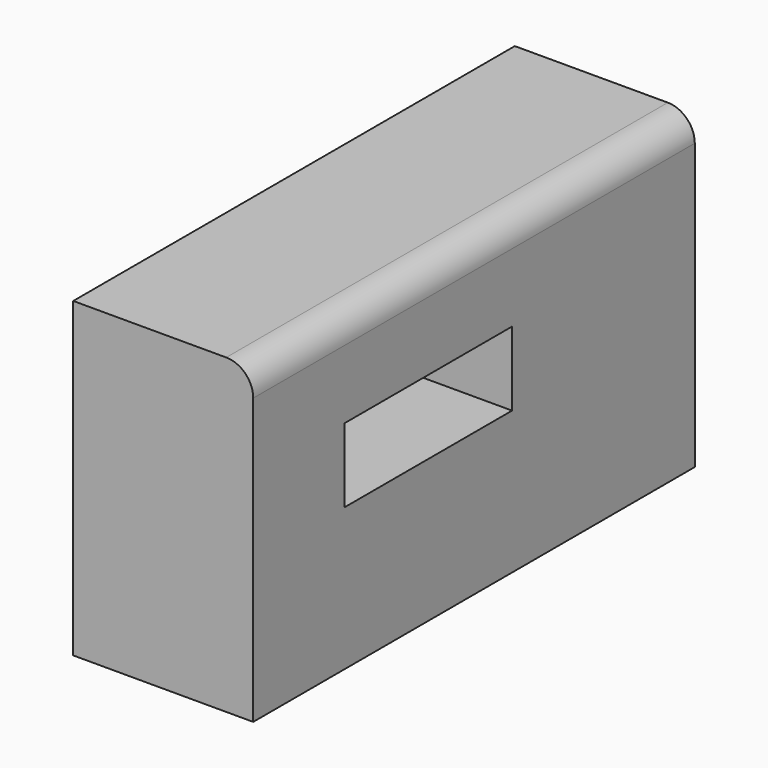
from build123d import *

# Parameters (mm, degrees)
F0_W     = 155.76981
F0_H     = 88.070355
F1_DEPTH = 50.8
F2_R     = 7.62
F3_W     = 59.155117
F3_H     = 20.894366
F4_DEPTH = 50.8


with BuildPart() as f1:
    # F0 (on Right) → F1 (new body)
    with BuildSketch(Plane.YZ):
        with Locations((77.884905, -44.035177)):
            Rectangle(F0_W, F0_H)
    extrude(amount=F1_DEPTH)

    # F2
    f2_edges = [f1.edges().sort_by_distance(p)[0] for p in [
        (50.8, 77.884905, 0),
    ]]
    fillet(f2_edges, radius=F2_R)

    # F3 (on face) → F4 (cut)
    with BuildSketch(Plane.YZ.offset(50.8)):
        with Locations((61.734566, -37.397995)):
            Rectangle(F3_W, F3_H)
    extrude(amount=-F4_DEPTH, mode=Mode.SUBTRACT)


solid = f1.part
